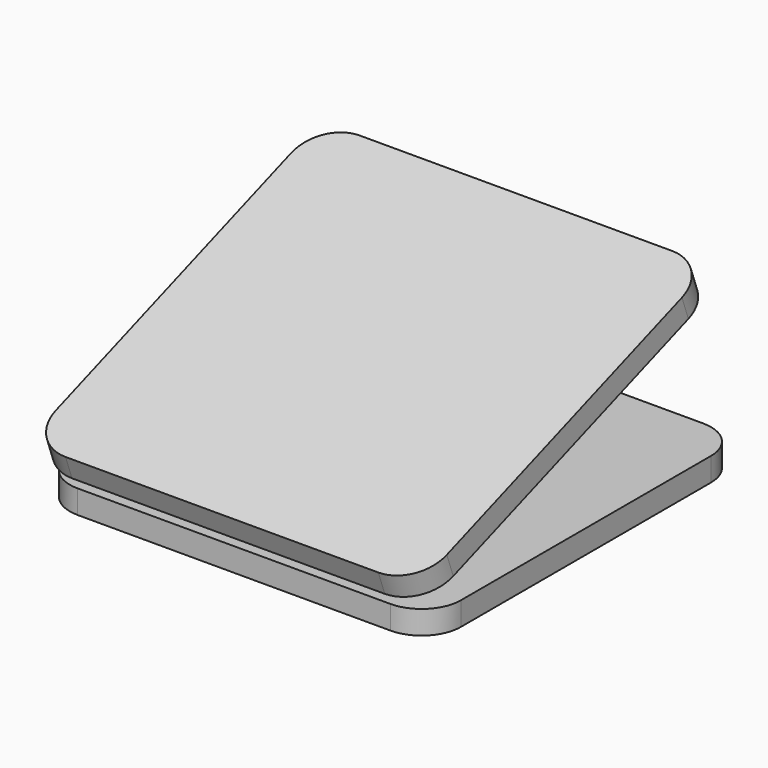
from build123d import *

# Parameters (mm, degrees)
F0_W     = 50
F0_H     = 50
F1_DEPTH = 3
F2_W     = 25
F2_H     = 25
F3_ANGLE = 20
F4_DEPTH = 6
F5_W     = 50
F5_H     = 50
F6_DEPTH = 3
F7_R     = 5
F8_R     = 5


with BuildPart() as f1:
    # F0 (on Top) → F1 (new body)
    with BuildSketch(Plane.XY):
        Rectangle(F0_W, F0_H)
    extrude(amount=F1_DEPTH)

    # F2 (on face) → F3 (revolve)
    with BuildSketch(Plane.XY.offset(3)):
        Rectangle(F2_W, F2_H)
    revolve(axis=Axis((0, -12.5, 3), (1, 0, 0)), revolution_arc=F3_ANGLE)

    # F4 (add): a face of the model
    f4_faces = [f1.faces().sort_by_distance(p)[0] for p in [
        (0, -0.7538422402, 7.2752517916),
    ]]
    extrude(f4_faces, amount=F4_DEPTH)

    # F5 (on face) → F6 (join)
    with BuildSketch(Plane(origin=(0, -4.478524505, 12.3046449499), x_dir=(1, 0, 0), z_dir=(0, -0.3420201433, 0.9396926208))):
        with Locations((0, 2.1972288873)):
            Rectangle(F5_W, F5_H)
    extrude(amount=F6_DEPTH)

    # F7
    f7_edges = [f1.edges().sort_by_distance(p)[0] for p in [
        (25, 20.565481, 23.016184),
        (-25, 20.565481, 23.016184),
        (-25, -26.41915, 5.915177),
        (25, -26.41915, 5.915177),
        (25, -25, 1.5),
        (-25, -25, 1.5),
        (-25, 25, 1.5),
        (25, 25, 1.5),
    ]]
    fillet(f7_edges, radius=F7_R)

    # F8
    f8_edges = [f1.edges().sort_by_distance(p)[0] for p in [
        (12.5, 9.966255, 14.369581),
        (-12.5, 9.966255, 14.369581),
        (-12.5, -13.52606, 5.819078),
        (12.5, -13.52606, 5.819078),
    ]]
    fillet(f8_edges, radius=F8_R)


solid = f1.part
